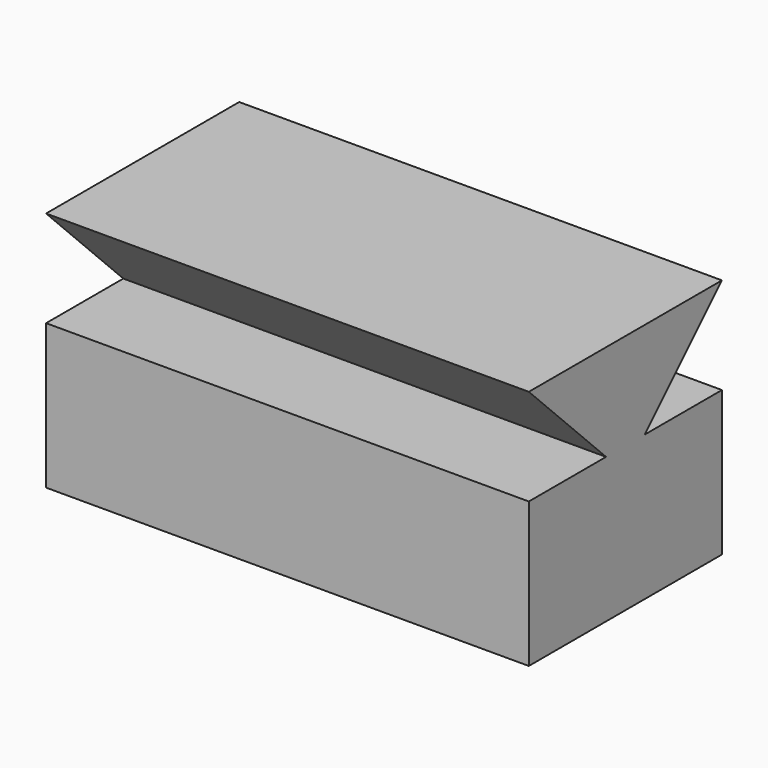
from build123d import *

# Parameters (mm, degrees)
F1_DEPTH      = 63.5
F1_DEPTH_BACK = 63.5


with BuildPart() as f1:
    # F0 (on Right) → F1 (new body, two sides)
    with BuildSketch(Plane.YZ) as f1_sk:
        Polygon((6.35, 6.35), (31.75, 31.75), (-31.75, 31.75), (-6.35, 6.35), (-31.75, 6.35), (-31.75, -31.75), (31.75, -31.75), (31.75, 6.35), align=None)
    extrude(amount=F1_DEPTH)
    extrude(f1_sk.sketch, amount=-F1_DEPTH_BACK)


solid = f1.part
